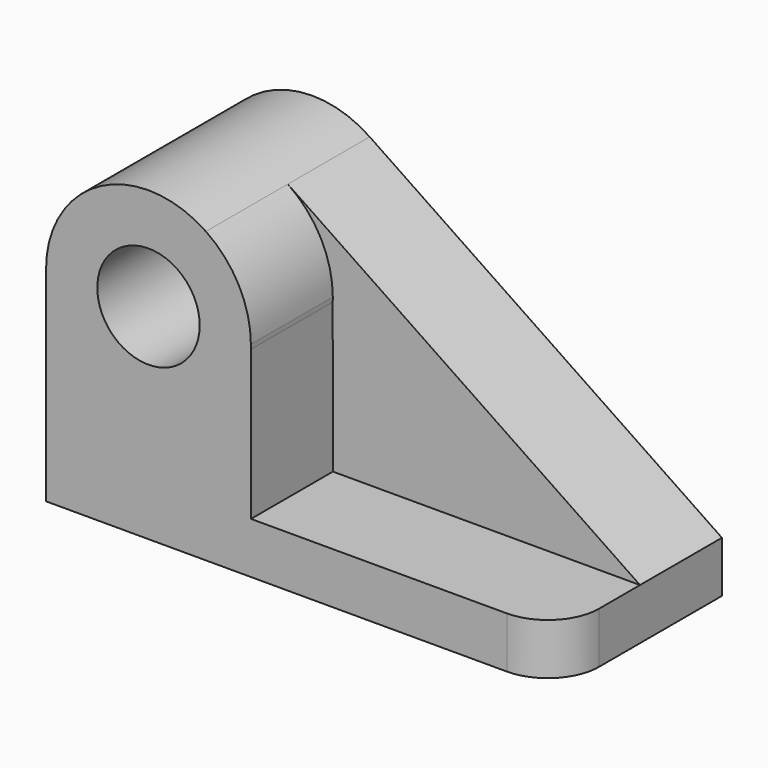
from build123d import *

# Parameters (mm, degrees)
F0_R     = 12.7
F1_DEPTH = 25.4
F2_R     = 12.7
F3_DEPTH = 25.4
F4_R     = 12.7


with BuildPart() as f1:
    # F0 (on Front) → F1 (new body)
    with BuildSketch(Plane.XZ):
        with BuildLine():
            Line((61.366399, -2.3876), (-25.995728, 56.746728))
            ThreePointArc((-25.995728, 56.746728), (-52.13986, 58.148999), (-65.633601, 35.7124))
            Line((-65.633601, 35.7124), (-65.633601, -15.0876))
            Line((-65.633601, -15.0876), (61.366399, -15.0876))
            Line((61.366399, -15.0876), (61.366399, -2.3876))
        make_face()
        with Locations((-40.233601, 35.7124)):
            Circle(F0_R, mode=Mode.SUBTRACT)
    extrude(amount=F1_DEPTH)

    # F2 (on face) → F3 (join)
    with BuildSketch(Plane.XZ.offset(25.4)):
        with BuildLine():
            Line((-14.802516, -2.3876), (-14.858348, 34.591433))
            ThreePointArc((-14.858348, 34.591433), (-40.794221, 10.318588), (-65.633601, 35.7124))
            Line((-65.633601, 35.7124), (-65.633601, -2.3876))
            Line((-65.633601, -2.3876), (-65.633601, -15.0876))
            Line((-65.633601, -15.0876), (61.366399, -15.0876))
            Line((61.366399, -15.0876), (61.366399, -2.3876))
            Line((61.366399, -2.3876), (-14.802516, -2.3876))
        make_face()
        with BuildLine():
            ThreePointArc((-14.858348, 34.591433), (-14.839789, 35.15178), (-14.833601, 35.7124))
            ThreePointArc((-14.833601, 35.7124), (-17.797002, 47.618659), (-25.995728, 56.746728))
            ThreePointArc((-25.995728, 56.746728), (-52.13986, 58.148999), (-65.633601, 35.7124))
            ThreePointArc((-65.633601, 35.7124), (-40.794221, 10.318588), (-14.858348, 34.591433))
        make_face()
        with Locations((-40.233601, 35.7124)):
            Circle(F2_R, mode=Mode.SUBTRACT)
    extrude(amount=F3_DEPTH)

    # F4
    f4_edges = [f1.edges().sort_by_distance(p)[0] for p in [
        (61.366399, -50.8, -8.7376),
    ]]
    fillet(f4_edges, radius=F4_R)


solid = f1.part
